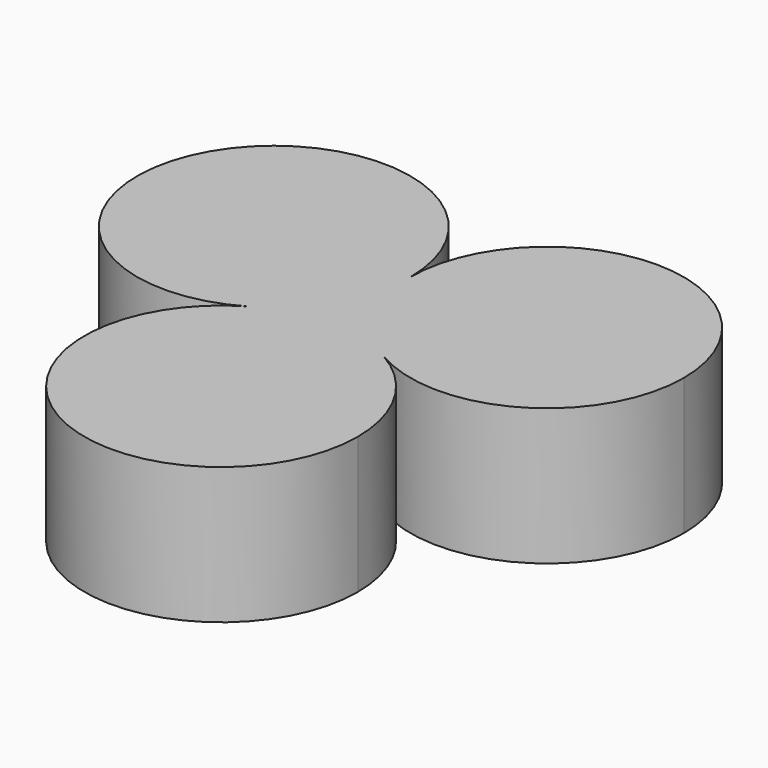
from build123d import *

# Parameters (mm, degrees)
F12_DEPTH = 3.175


with BuildPart() as f12:
    # F10 (on plane+point) → F12 (new body)
    with BuildSketch(Plane.XY.offset(179.6051224214)):
        with BuildLine():
            ThreePointArc((-1.5874999976, -0.9165435509), (-1.5875000012, -6.4158048657), (3.175, -3.6661742094))
            ThreePointArc((3.175, -3.6661742094), (2.7496306536, -2.0786742034), (1.5874999882, -0.9165435455))
            ThreePointArc((1.5874999882, -0.9165435455), (-5.4e-09, -0.4911742094), (-1.5874999976, -0.9165435509))
        make_face()
        with BuildLine():
            ThreePointArc((-1.5874999976, -0.9165435509), (-5.4e-09, -0.4911742094), (1.5874999882, -0.9165435455))
            ThreePointArc((1.5874999882, -0.9165435455), (0.4253693396, 0.2455871106), (0, 1.8330871047))
            ThreePointArc((0, 1.8330871047), (-0.4253693423, 0.2455871059), (-1.5874999976, -0.9165435509))
        make_face()
        with BuildLine():
            ThreePointArc((0, 1.8330871047), (0.4253693396, 0.2455871106), (1.5874999882, -0.9165435455))
            ThreePointArc((1.5874999882, -0.9165435455), (4.7624999941, -0.9165435558), (6.35, 1.8330871047))
            ThreePointArc((6.35, 1.8330871047), (3.175, 5.0080871047), (0, 1.8330871047))
        make_face()
        with BuildLine():
            ThreePointArc((0, 1.8330871047), (-5.9246306577, 3.4205871035), (-1.5874999976, -0.9165435509))
            ThreePointArc((-1.5874999976, -0.9165435509), (-0.4253693423, 0.2455871059), (0, 1.8330871047))
        make_face()
    extrude(amount=F12_DEPTH)


solid = f12.part
